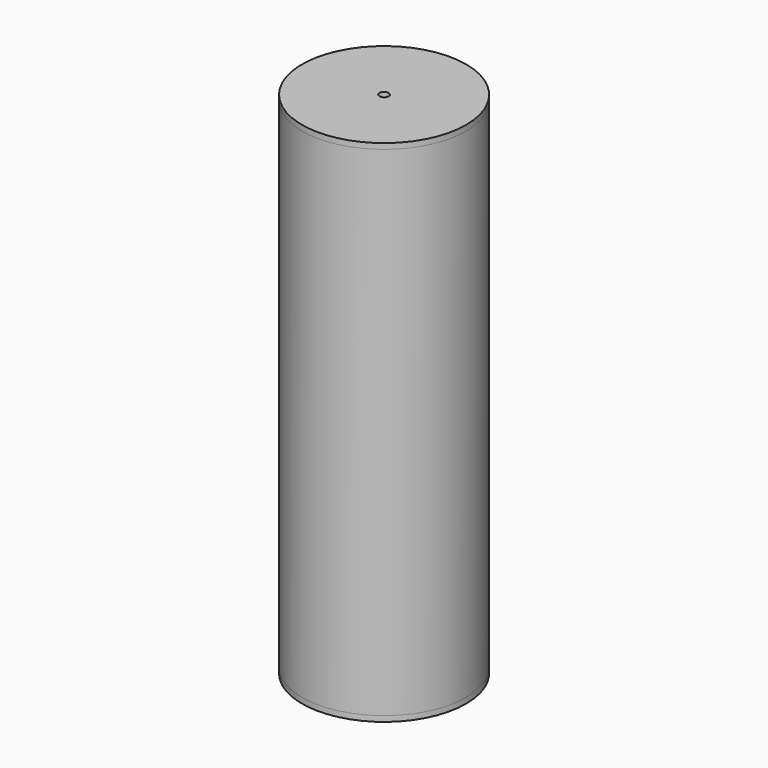
from build123d import *

# Parameters (mm, degrees)
F1_R          = 44.45
F1_R_2        = 41.275
F2_DEPTH      = 135
F2_DEPTH_BACK = 135
F3_R          = 44.45
F3_R_2        = 2.5
F4_DEPTH      = 3


with BuildPart() as f2:
    # F1 (on Top) → F2 (new body, two sides)
    with BuildSketch(Plane.XY) as f2_sk:
        Circle(F1_R)
        Circle(F1_R_2, mode=Mode.SUBTRACT)
    extrude(amount=F2_DEPTH)
    extrude(f2_sk.sketch, amount=-F2_DEPTH_BACK)


with BuildPart() as f4:
    # F3 (on face) → F4 (new body)
    with BuildSketch(Plane.XY.offset(135)):
        Circle(F3_R)
        Circle(F3_R_2, mode=Mode.SUBTRACT)
    extrude(amount=F4_DEPTH)


with BuildPart() as f5_1:
    # F5: instance of F4
    add(f4.part.mirror(Plane.XY))


solid = Compound([f2.part, f4.part, f5_1.part])
